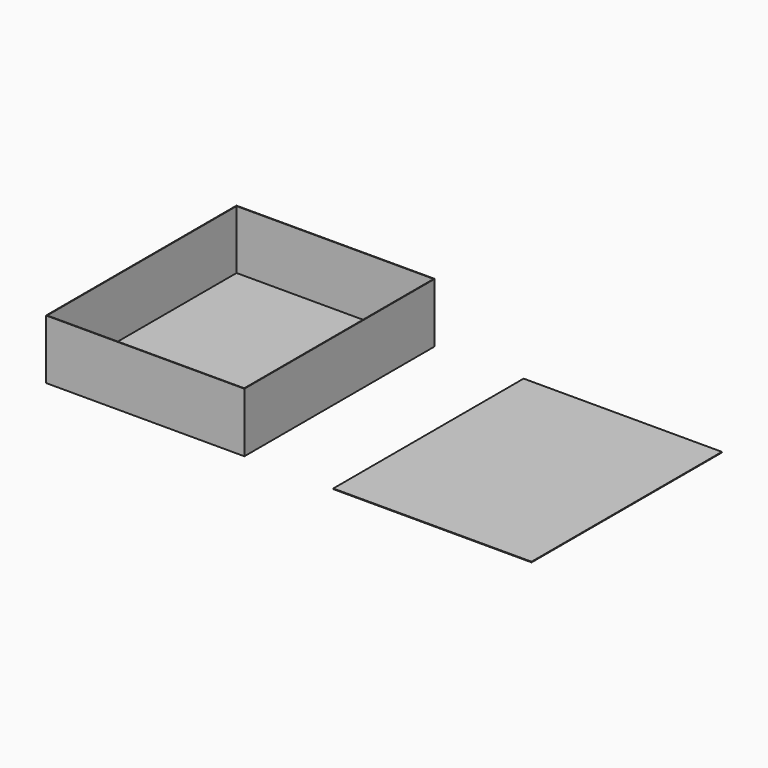
from build123d import *

# Parameters (mm, degrees)
F0_W     = 500
F0_H     = 600
F1_DEPTH = 150
F2_T     = -1.5
F3_DEPTH = 1.5


with BuildPart() as f1:
    # F0 (on Top) → F1 (new body)
    with BuildSketch(Plane.XY):
        with Locations((250, 300)):
            Rectangle(F0_W, F0_H)
    extrude(amount=F1_DEPTH)

    # F2
    f2_openings = [f1.faces().sort_by_distance(p)[0] for p in [
        (250, 300, 150),
    ]]
    offset(amount=F2_T, openings=f2_openings)


with BuildPart() as f3:
    # F0 (on Top) → F3 (new body)
    with BuildSketch(Plane.XY):
        with Locations((974.108815, 300)):
            Rectangle(F0_W, F0_H)
    extrude(amount=F3_DEPTH)


solid = Compound([f1.part, f3.part])
